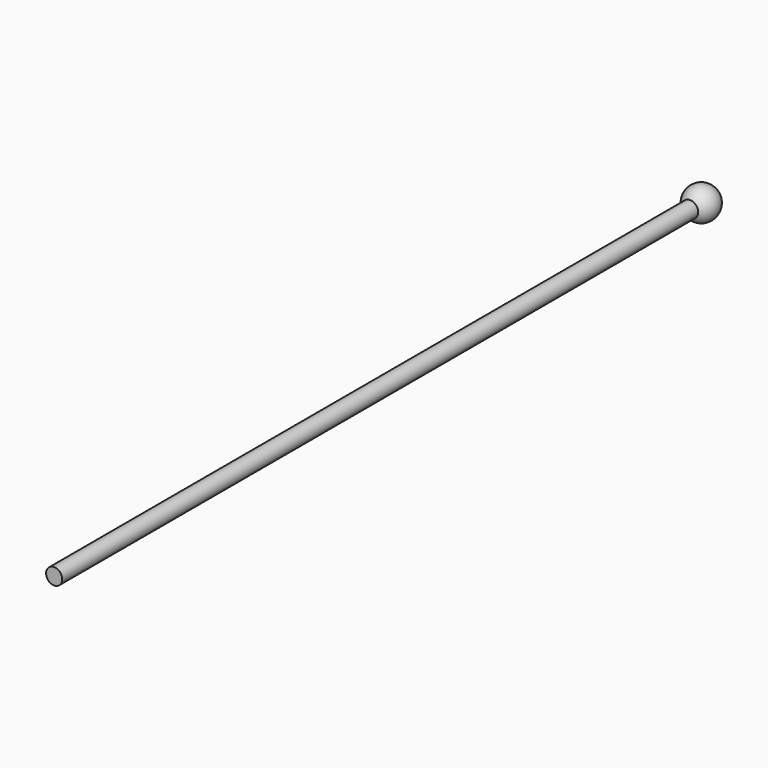
from build123d import *

# Parameters (mm, degrees)
F2_R     = 1
F3_DEPTH = 100


with BuildPart() as f1:
    # F0 (on Front) → F1 (revolve)
    with BuildSketch(Plane.XZ):
        with BuildLine():
            Line((0, -2), (0, 2))
            ThreePointArc((0, 2), (-2, 0), (0, -2))
        make_face()
    revolve(axis=Axis((0, 0, 0), (0, 0, -1)))


with BuildPart() as f3:
    # F2 (on Front) → F3 (new body)
    with BuildSketch(Plane.XZ):
        Circle(F2_R)
    extrude(amount=F3_DEPTH)


solid = Compound([f1.part, f3.part])
